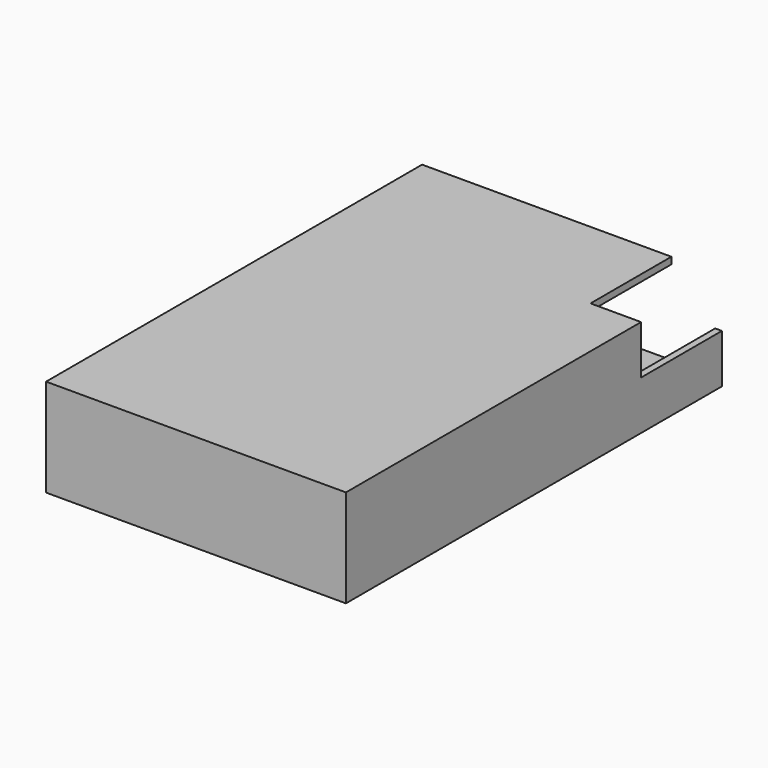
from build123d import *

# Parameters (mm, degrees)
SKETCH016_W             = 35.6
SKETCH016_H             = 11.6
PAD009_DEPTH            = 0.8
SKETCH017_W             = 35.6
SKETCH017_H             = 11.6
SKETCH017_W_2           = 34
SKETCH017_H_2           = 10
PAD010_DEPTH            = 55.8
SKETCH018_W             = 6
SKETCH018_H             = 12
POCKET007_DEPTH         = 5.8
BODY005_PLACEMENT_ANGLE = 270


with BuildPart() as part:
    # Sketch016 → Pad009 (new body)
    with BuildSketch(Plane.XY):
        Rectangle(SKETCH016_W, SKETCH016_H)
    extrude(amount=PAD009_DEPTH)

    # Sketch017 → Pad010 (join)
    with BuildSketch(Plane.XY):
        Rectangle(SKETCH017_W, SKETCH017_H)
        Rectangle(SKETCH017_W_2, SKETCH017_H_2, mode=Mode.SUBTRACT)
    extrude(amount=PAD010_DEPTH)

    # Sketch018 (on Face5 of Pad010) → Pocket007 (cut)
    with BuildSketch(Plane.XZ.offset(5.8)):
        with Locations((14.8, 49.8)):
            Rectangle(SKETCH018_W, SKETCH018_H)
    extrude(amount=-POCKET007_DEPTH, mode=Mode.SUBTRACT)


with BuildPart() as part_1:
    # Body005 placement: moved
    add(part.part.moved(Location((-33.1, -35.587276, 51.887276))).rotate(Axis((-33.1, -35.587276, 51.887276), (1, 0, 0)), BODY005_PLACEMENT_ANGLE))


solid = part_1.part
